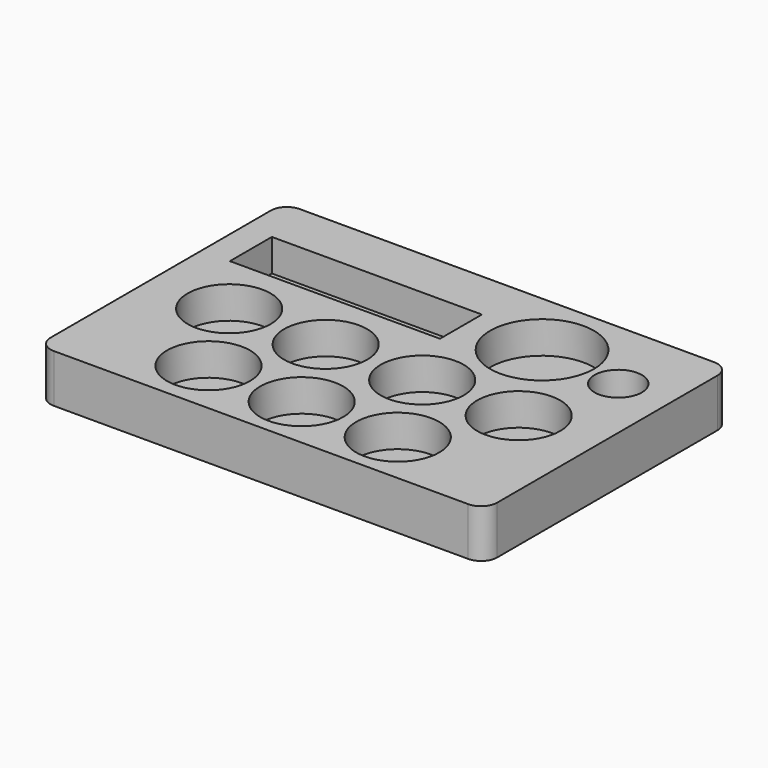
from build123d import *

# Parameters (mm, degrees)
F1_W     = 138.843298
F1_H     = 95.578349
F2_DEPTH = 15
F3_R     = 12.9
F3_W     = 65.3
F3_H     = 16.3
F3_R_2   = 7.35
F3_R_3   = 16.125
F4_DEPTH = 10
F5_R     = 5


with BuildPart() as f2:
    # F1 (on Top) → F2 (new body)
    with BuildSketch(Plane.XY):
        with Locations((-4.834347, 3.827586)):
            Rectangle(F1_W, F1_H)
    extrude(amount=F2_DEPTH)

    # F3 (on face) → F4 (cut)
    with BuildSketch(Plane.XY.offset(15)):
        with Locations((10.097019, 0)):
            Circle(F3_R)
        with Locations((-32.741672, 27.800055)):
            Rectangle(F3_W, F3_H)
        with Locations((-19.902981, 0)):
            Circle(F3_R)
        with Locations((40.097019, 0)):
            Circle(F3_R)
        with Locations((-49.902981, 0)):
            Circle(F3_R)
        with Locations((48.471941, 28.214054)):
            Circle(F3_R_2)
        with Locations((-5.631315, -27.163423)):
            Circle(F3_R)
        with Locations((-35.1047, -26.528409)):
            Circle(F3_R)
        with Locations((22.900803, 30.567518)):
            Circle(F3_R_3)
        with Locations((24.226132, -27.163423)):
            Circle(F3_R)
    extrude(amount=-F4_DEPTH, mode=Mode.SUBTRACT)

    # F5
    f5_edges = [f2.edges().sort_by_distance(p)[0] for p in [
        (64.587302, -43.961589, 7.5),
        (-74.255996, -43.961589, 7.5),
        (64.587302, 51.61676, 7.5),
        (-74.255996, 51.61676, 7.5),
    ]]
    fillet(f5_edges, radius=F5_R)


solid = f2.part
